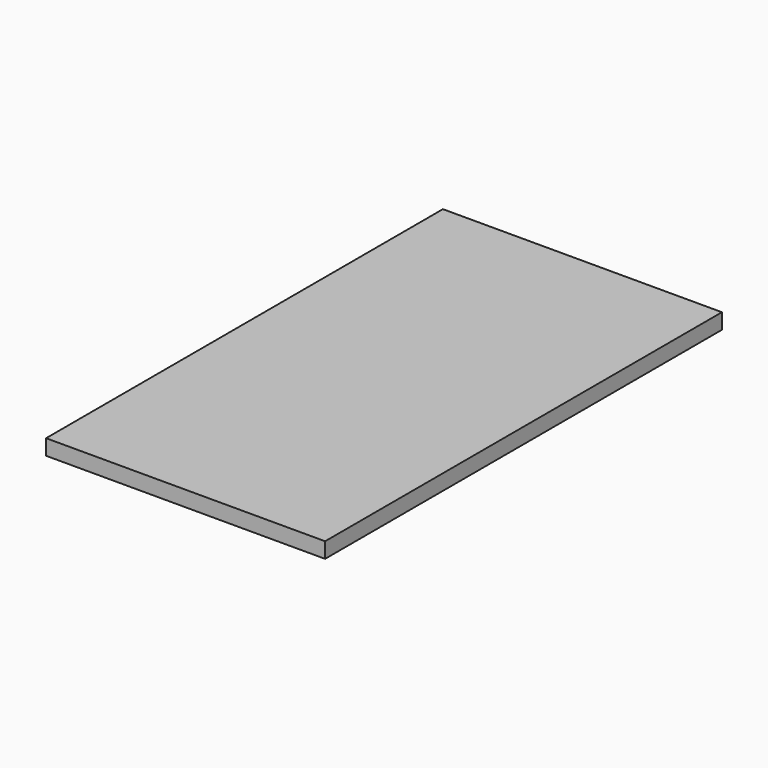
from build123d import *

# Parameters (mm, degrees)
F0_W     = 57.15
F0_H     = 101.6
F1_DEPTH = 3.175
F2_R     = 0.8255
F3_DEPTH = 3.302
F4_W     = 6.35
F4_H     = 6.35
F5_DEPTH = 3.175


with BuildPart() as f1:
    # F0 (on Top) → F1 (new body)
    with BuildSketch(Plane.XY):
        Rectangle(F0_W, F0_H)
    extrude(amount=F1_DEPTH)

    # F2 (on face) → F3 (cut)
    with BuildSketch(Plane(origin=(-28.575, 0, 0), x_dir=(0, -1, 0), z_dir=(-1, 0, 0))):
        with Locations((0, 1.5875)):
            Circle(F2_R)
        with Locations((25.4, 1.5875)):
            Circle(F2_R)
        with Locations((-25.4, 1.5875)):
            Circle(F2_R)
    extrude(amount=-F3_DEPTH, mode=Mode.SUBTRACT)

    # F4 (on face) → F5 (join)
    with BuildSketch(Plane(origin=(0, 0, 0), x_dir=(1, 0, 0), z_dir=(0, 0, -1))):
        with Locations((-25.4, 32.639)):
            Rectangle(F4_W, F4_H)
        with Locations((-25.4, -32.639)):
            Rectangle(F4_W, F4_H)
        with Locations((16.764, -32.639)):
            Rectangle(F4_W, F4_H)
        with Locations((16.764, 32.639)):
            Rectangle(F4_W, F4_H)
    extrude(amount=F5_DEPTH)


solid = f1.part
